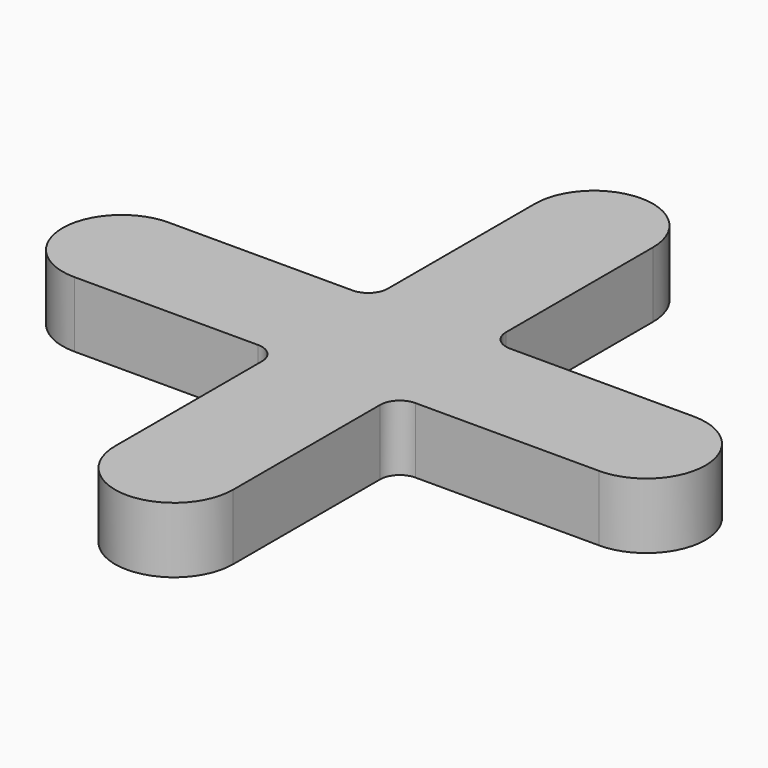
from build123d import *

# Parameters (mm, degrees)
PAD_DEPTH = 10


with BuildPart() as part:
    # Sketch → Pad (new body)
    with BuildSketch(Plane.XY):
        with BuildLine():
            Line((-9, 12), (-9, 40))
            ThreePointArc((9, 40), (0, 49), (-9, 40))
            Line((9, 40), (9, 12))
            ThreePointArc((9, 12), (9.87868, 9.87868), (12, 9))
            Line((12, 9), (40, 9))
            ThreePointArc((40, -9), (49, 0), (40, 9))
            Line((40, -9), (12, -9))
            ThreePointArc((12, -9), (9.87868, -9.87868), (9, -12))
            Line((9, -12), (9, -40))
            ThreePointArc((-9, -40), (0, -49), (9, -40))
            Line((-9, -40), (-9, -12))
            ThreePointArc((-9, -12), (-9.87868, -9.87868), (-12, -9))
            Line((-12, -9), (-40, -9))
            ThreePointArc((-40, 9), (-49, 0), (-40, -9))
            Line((-40, 9), (-12, 9))
            ThreePointArc((-12, 9), (-9.87868, 9.87868), (-9, 12))
        make_face()
    extrude(amount=PAD_DEPTH)


solid = part.part
